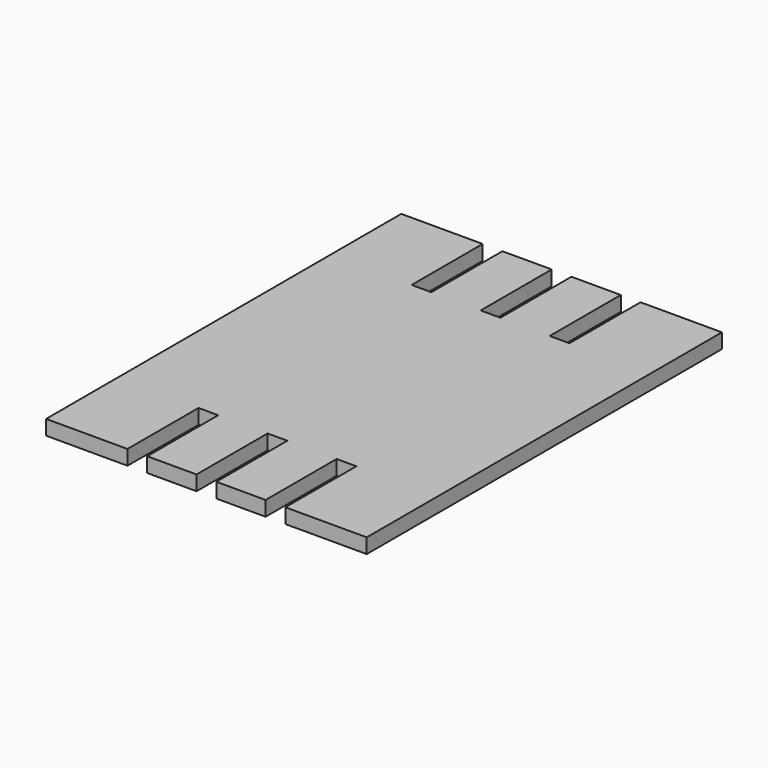
from build123d import *

# Parameters (mm, degrees)
F0_W     = 65
F0_H     = 90
F1_DEPTH = 3
F2_W     = 4
F2_H     = 18
F3_DEPTH = 3.001


with BuildPart() as f1:
    # F0 (on Top) → F1 (new body)
    with BuildSketch(Plane.XY):
        Rectangle(F0_W, F0_H)
    extrude(amount=F1_DEPTH)

    # F2 (on face) → F3 (cut, through all)
    with BuildSketch(Plane.XY.offset(3)):
        with Locations((-14, -36)):
            Rectangle(F2_W, F2_H)
        with Locations((0, -36)):
            Rectangle(F2_W, F2_H)
        with Locations((14, -36)):
            Rectangle(F2_W, F2_H)
        with Locations((0, 36)):
            Rectangle(F2_W, F2_H)
        with Locations((14, 36)):
            Rectangle(F2_W, F2_H)
        with Locations((-14, 36)):
            Rectangle(F2_W, F2_H)
    extrude(amount=-F3_DEPTH, mode=Mode.SUBTRACT)


solid = f1.part
